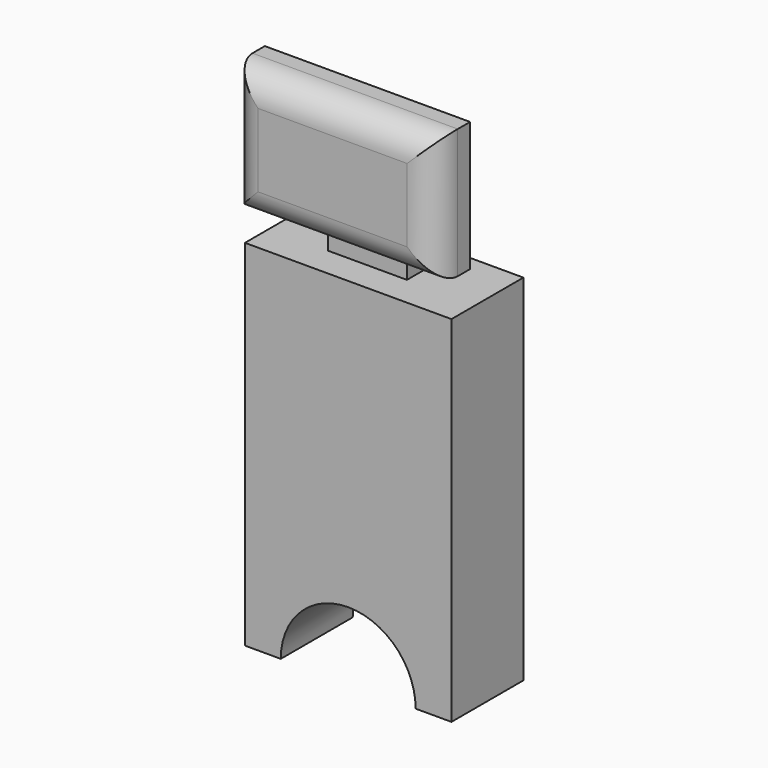
from build123d import *

# Parameters (mm, degrees)
F0_W     = 58.329247
F0_H     = 100.166194
F1_DEPTH = 25.4
F3_D     = 38.1
F5_W     = 22.291495
F5_H     = 12.931229
F6_DEPTH = 25.4
F8_W     = 57.983957
F8_H     = 36.597609
F9_DEPTH = 12.285994
F10_R    = 7.926633


with BuildPart() as f1:
    # F0 (on Front) → F1 (new body)
    with BuildSketch(Plane.XZ):
        with Locations((0.23458, 8.289784)):
            Rectangle(F0_W, F0_H)
    extrude(amount=F1_DEPTH)

    # F3 (through all)
    with Locations(Plane.XZ.offset(25.4)):
        with Locations((0.23458, -41.793313)):
            Hole(F3_D / 2)

    # F5 (on face) → F6 (join)
    with BuildSketch(Plane.XY.offset(58.372881)):
        with Locations((-1.115124, -10.430084)):
            Rectangle(F5_W, F5_H)
    extrude(amount=F6_DEPTH)

    # F8 (on face) → F9 (join)
    with BuildSketch(Plane.XZ.offset(16.895698)):
        with Locations((-1.133726, 85.148781)):
            Rectangle(F8_W, F8_H)
    extrude(amount=F9_DEPTH)

    # F10
    f10_edges = [f1.edges().sort_by_distance(p)[0] for p in [
        (27.858253, -29.181693, 85.148782),
        (-1.133725, -29.181693, 103.447586),
        (-1.133725, -29.181693, 66.849977),
        (-30.125704, -29.181693, 85.148782),
    ]]
    fillet(f10_edges, radius=F10_R)


solid = f1.part
